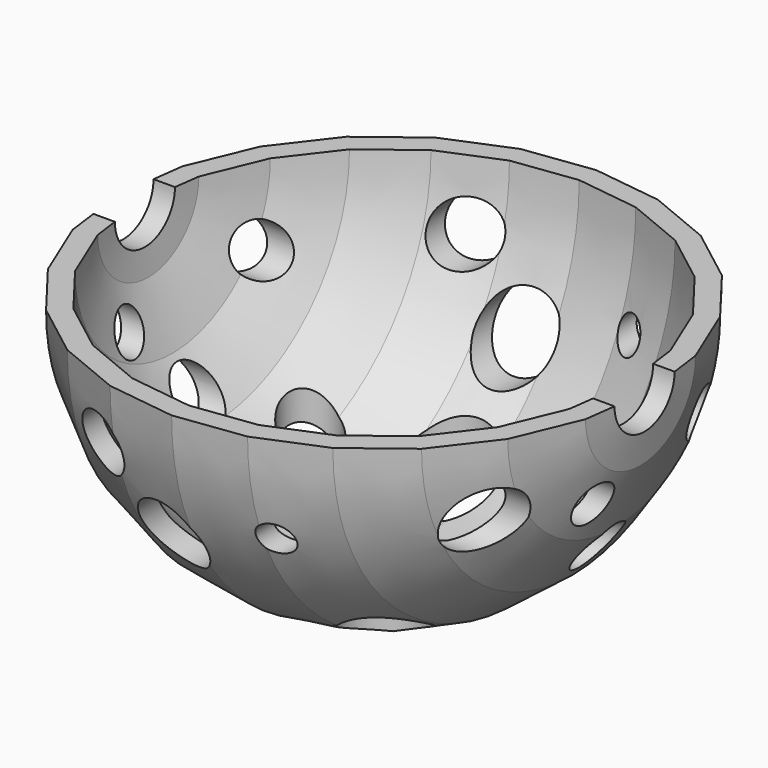
from build123d import *

# Parameters (mm, degrees)
F3_W           = 49.9716736376
F3_H           = 50
F4_DEPTH       = 25
F7_R           = 3.5
F8_DEPTH       = 25
F8_DEPTH_BACK  = 25
F9_R           = 3.7228830523
F9_R_2         = 3.4350308588
F9_R_3         = 2.5681026105
F9_R_4         = 4.0607126717
F9_R_5         = 2.2470905139
F9_R_6         = 2.7333447809
F10_DEPTH      = 25
F10_DEPTH_BACK = 25
F11_R          = 2.9068649792
F11_R_2        = 1.92605765
F11_R_3        = 2.3686585615
F11_R_4        = 2.2355718734
F11_R_5        = 2.2604113328
F11_R_6        = 2.3271153702
F11_R_7        = 2.4343621542
F12_DEPTH      = 25
F12_DEPTH_BACK = 25
F13_R          = 2.7339649338
F13_R_2        = 3.3752457928
F13_R_3        = 1.4537882101
F13_R_4        = 3.5734879419
F13_R_5        = 2.5268896762
F13_R_6        = 2.938084876
F14_DEPTH      = 25
F14_DEPTH_BACK = 25


with BuildPart() as f2:
    # F1 (on Top) → F2 (revolve)
    with BuildSketch(Plane.XY):
        Polygon((-22.74, 0), (-24.74, 0), (-23.8970049424, -6.4031831758), (-21.4254684896, -12.37), (-17.4938217666, -17.4938217666), (-12.37, -21.4254684896), (-6.4031831758, -23.8970049424), (0, -24.74), (6.4031831758, -23.8970049424), (12.37, -21.4254684896), (17.4938217666, -17.4938217666), (21.4254684896, -12.37), (23.8970049424, -6.4031831758), (24.74, 0), (22.74, 0), (21.9651532898, -5.8855450856), (19.6934176821, -11.37), (16.0796082042, -16.0796082042), (11.37, -19.6934176821), (5.8855450856, -21.9651532898), (0, -22.74), (-5.8855450856, -21.9651532898), (-11.37, -19.6934176821), (-16.0796082042, -16.0796082042), (-19.6934176821, -11.37), (-21.9651532898, -5.8855450856), align=None)
    revolve(axis=Axis((0, 0, 0), (1, 0, 0)))

    # F3 (on Top) → F4 (cut)
    with BuildSketch(Plane.XY):
        Rectangle(F3_W, F3_H)
    extrude(amount=F4_DEPTH, mode=Mode.SUBTRACT)

    # F7 (on Right) → F8 (cut, two sides)
    with BuildSketch(Plane.YZ) as f8_sk:
        Circle(F7_R)
    extrude(amount=F8_DEPTH, mode=Mode.SUBTRACT)
    extrude(f8_sk.sketch, amount=-F8_DEPTH_BACK, mode=Mode.SUBTRACT)

    # F9 (on Top) → F10 (cut, two sides)
    with BuildSketch(Plane.XY) as f10_sk:
        with Locations((8.1700040027, -10.2160023525)):
            Circle(F9_R)
        with Locations((-7.3134736158, -7.4780248106)):
            Circle(F9_R_2)
        with Locations((-12.0338927954, 6.4766881987)):
            Circle(F9_R_3)
        with Locations((-2.274527913, 10.4422392324)):
            Circle(F9_R_4)
        with Locations((8.3914557472, 2.8847986832)):
            Circle(F9_R_5)
        with Locations((12.2458832338, 9.3722781166)):
            Circle(F9_R_6)
    extrude(amount=F10_DEPTH, mode=Mode.SUBTRACT)
    extrude(f10_sk.sketch, amount=-F10_DEPTH_BACK, mode=Mode.SUBTRACT)

    # F11 (on Right) → F12 (cut, two sides)
    with BuildSketch(Plane.YZ) as f12_sk:
        with Locations((-12.8202885389, -7.0454124361)):
            Circle(F11_R)
        with Locations((-4.0524527431, -8.2878665999)):
            Circle(F11_R_2)
        with Locations((0, -14.273182489)):
            Circle(F11_R_3)
        with Locations((9.6162138507, -6.6695716232)):
            Circle(F11_R_4)
        with Locations((4.8970384523, 10.8217168599)):
            Circle(F11_R_5)
        with Locations((17.1741954982, 4.2513730004)):
            Circle(F11_R_6)
        with Locations((-9.8734581843, 7.0252432488)):
            Circle(F11_R_7)
    extrude(amount=-F12_DEPTH, mode=Mode.SUBTRACT)
    extrude(f12_sk.sketch, amount=F12_DEPTH_BACK, mode=Mode.SUBTRACT)

    # F13 (on Front) → F14 (cut, two sides)
    with BuildSketch(Plane.XZ) as f14_sk:
        with Locations((-8.4097981453, -5.9920321219)):
            Circle(F13_R)
        with Locations((-2.7119205333, -12.101967819)):
            Circle(F13_R_2)
        with Locations((7.3055252433, -8.969143033)):
            Circle(F13_R_3)
        with Locations((8.5832346231, 6.1688064598)):
            Circle(F13_R_4)
        with Locations((-2.536118729, 6.6451081075)):
            Circle(F13_R_5)
        with Locations((-10.5505678803, 10.2224517614)):
            Circle(F13_R_6)
    extrude(amount=-F14_DEPTH, mode=Mode.SUBTRACT)
    extrude(f14_sk.sketch, amount=F14_DEPTH_BACK, mode=Mode.SUBTRACT)


solid = f2.part
